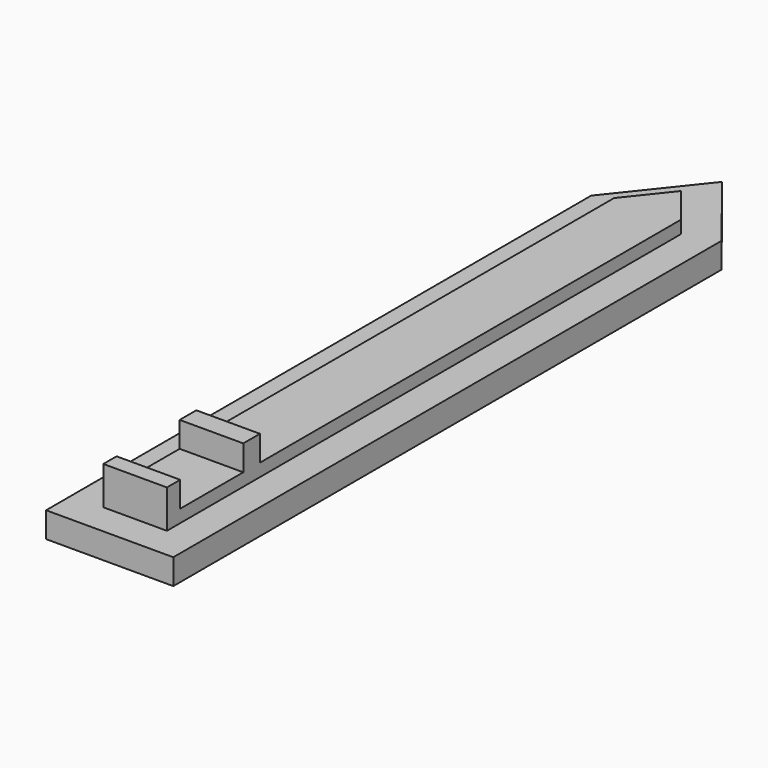
from build123d import *

# Parameters (mm, degrees)
F0_W     = 25.4
F0_H     = 3.4750678155
F1_DEPTH = 5.08
F0_W_2   = 12.7
F0_H_2   = 15.7407342222
F2_DEPTH = 7.62
F0_H_3   = 4.1556985352
F0_H_4   = 3.3092657778
F3_DEPTH = 12.7


with BuildPart() as f1:
    # F0 (on Top) → F1 (new body)
    with BuildSketch(Plane.XY):
        Polygon((-36.596847949, 53.1499683857), (-36.596847949, -73.2352957129), (-30.246847949, -73.2352957129), (-30.246847949, -57.4945614907), (-30.246847949, -53.3388629556), (-30.246847949, -19.8709424585), (-30.246847949, -15.9986205399), (-30.246847949, 50.9313653009), (-23.5789932814, 59.3087746812), (-17.546847949, 51.7300625752), (-17.546847949, -15.9986205399), (-17.546847949, -19.8709424585), (-17.546847949, -53.3388629556), (-17.546847949, -57.4945614907), (-17.546847949, -73.2352957129), (-11.196847949, -73.2352957129), (-11.196847949, 53.94866566), (-23.5789932814, 69.5054385093), align=None)
        Polygon((-36.596847949, -73.2352957129), (-36.596847949, -79.4194936752), (-11.196847949, -79.4194936752), (-11.196847949, -73.2352957129), (-17.546847949, -73.2352957129), (-17.546847949, -76.5445614907), (-30.246847949, -76.5445614907), (-30.246847949, -73.2352957129), align=None)
        with Locations((-23.896847949, -81.157027583)):
            Rectangle(F0_W, F0_H)
    extrude(amount=F1_DEPTH)

    # F0 (on Top) → F2 (join)
    with BuildSketch(Plane.XY):
        with Locations((-23.896847949, -65.3649286018)):
            Rectangle(F0_W_2, F0_H_2)
        Polygon((-30.246847949, -19.8709424585), (-30.246847949, -53.3388629556), (-17.546847949, -53.3388629556), (-17.546847949, -19.8709424585), (-17.546847949, -15.9986205399), (-17.546847949, 51.7300625752), (-23.5789932814, 59.3087746812), (-30.246847949, 50.9313653009), (-30.246847949, -15.9986205399), align=None)
    extrude(amount=F2_DEPTH)

    # F0 (on Top) → F3 (join)
    with BuildSketch(Plane.XY):
        with Locations((-23.896847949, -55.4167122231)):
            Rectangle(F0_W_2, F0_H_3)
        with Locations((-23.896847949, -74.8899286018)):
            Rectangle(F0_W_2, F0_H_4)
    extrude(amount=F3_DEPTH)


solid = f1.part
